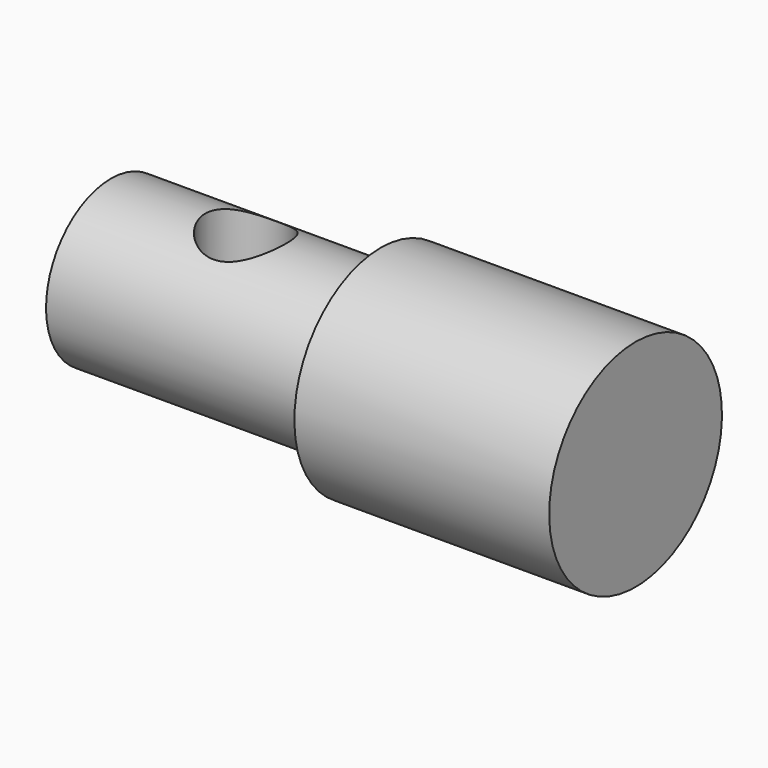
from build123d import *

# Parameters (mm, degrees)
F2_R     = 2.38125
F3_DEPTH = 25.4


with BuildPart() as f1:
    # F0 (on Front) → F1 (revolve)
    with BuildSketch(Plane.XZ):
        Polygon((-30.861, 0), (0, 0), (0, 6.35), (-14.986, 6.35), (-14.986, 4.7625), (-30.861, 4.7625), align=None)
    revolve(axis=Axis((-72.969213, 0, 0), (-1, 0, 0)))

    # F2 (on Top) → F3 (cut, symmetric)
    with BuildSketch(Plane.XY):
        with Locations((-22.9235, 0)):
            Circle(F2_R)
    extrude(amount=F3_DEPTH, both=True, mode=Mode.SUBTRACT)


solid = f1.part
